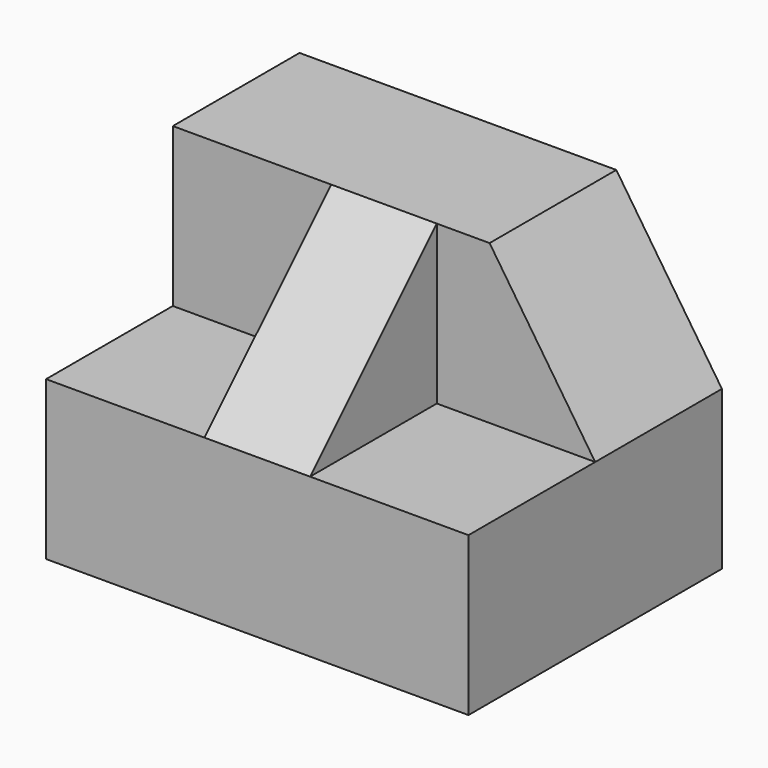
from build123d import *

# Parameters (mm, degrees)
F0_W     = 50.8
F0_H     = 38.1
F1_DEPTH = 38.1
F2_W     = 19.05
F2_H     = 19.05
F3_DEPTH = 19.05
F4_W     = 19.05
F4_H     = 19.05
F5_DEPTH = 19.05
F7_DEPTH = 31.751
F9_DEPTH = 19.051


with BuildPart() as f1:
    # F0 (on Top) → F1 (new body)
    with BuildSketch(Plane.XY):
        with Locations((25.4, 19.05)):
            Rectangle(F0_W, F0_H)
    extrude(amount=F1_DEPTH)

    # F2 (on face) → F3 (cut)
    with BuildSketch(Plane(origin=(0, 0, 0), x_dir=(0, -1, 0), z_dir=(-1, 0, 0))):
        with Locations((-9.525, 28.575)):
            Rectangle(F2_W, F2_H)
    extrude(amount=-F3_DEPTH, mode=Mode.SUBTRACT)

    # F4 (on face) → F5 (cut)
    with BuildSketch(Plane.YZ.offset(50.8)):
        with Locations((9.525, 28.575)):
            Rectangle(F4_W, F4_H)
    extrude(amount=-F5_DEPTH, mode=Mode.SUBTRACT)

    # F6 (on face) → F7 (cut, through all)
    with BuildSketch(Plane.YZ.offset(31.75)):
        Polygon((0, 38.1), (0, 19.05), (19.05, 38.1), align=None)
    extrude(amount=-F7_DEPTH, mode=Mode.SUBTRACT)

    # F8 (on face) → F9 (cut, through all)
    with BuildSketch(Plane.XZ.offset(-19.05)):
        Polygon((50.8, 38.1), (38.1, 38.1), (50.8, 19.05), align=None)
    extrude(amount=-F9_DEPTH, mode=Mode.SUBTRACT)


solid = f1.part
